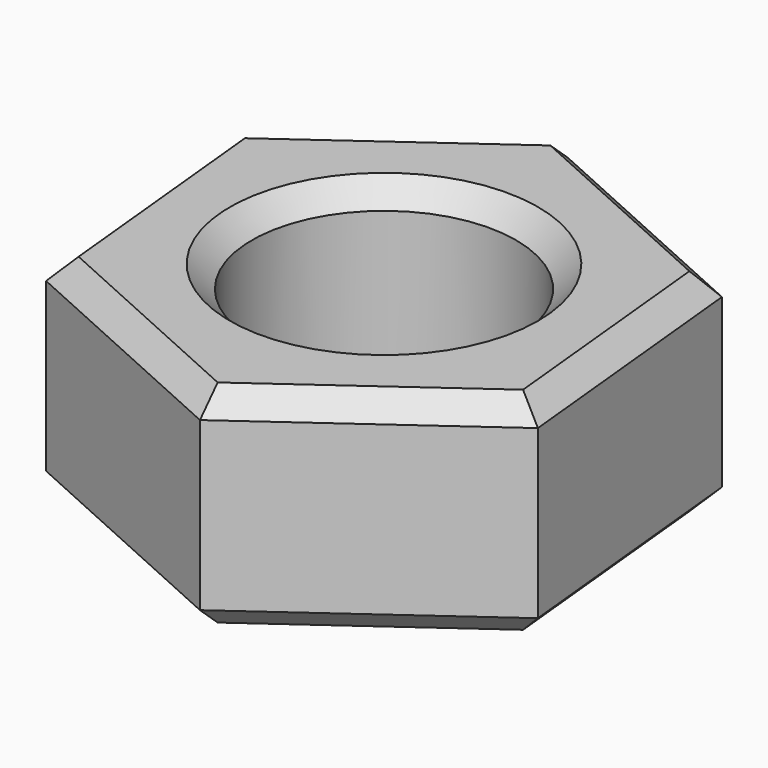
from build123d import *

# Parameters (mm, degrees)
F0_R     = 1.5
F1_DEPTH = 2.4
F2_SIZE  = 0.25
F3_SIZE  = 0.25


with BuildPart() as f1:
    # F0 (on Top) → F1 (new body)
    with BuildSketch(Plane.XY):
        Polygon((0.298511, -2.985112), (2.734438, -1.234037), (2.435927, 1.751074), (-0.298511, 2.985112), (-2.734438, 1.234037), (-2.435927, -1.751074), align=None)
        Circle(F0_R, mode=Mode.SUBTRACT)
    extrude(amount=F1_DEPTH)

    # F2
    f2_edges = [f1.edges().sort_by_distance(p)[0] for p in [
        (-1.068708, -2.368093, 0),
        (1.516475, -2.109574, 0),
        (2.585182, 0.258518, 0),
        (1.068708, 2.368093, 0),
        (-1.516475, 2.109574, 0),
        (-2.585182, -0.258518, 0),
        (-1.5, 0, 0),
    ]]
    chamfer(f2_edges, length=F2_SIZE)

    # F3
    f3_edges = [f1.edges().sort_by_distance(p)[0] for p in [
        (-1.068708, -2.368093, 2.4),
        (1.516475, -2.109574, 2.4),
        (2.585182, 0.258518, 2.4),
        (1.068708, 2.368093, 2.4),
        (-1.516475, 2.109574, 2.4),
        (-2.585182, -0.258518, 2.4),
        (-1.5, 0, 2.4),
    ]]
    chamfer(f3_edges, length=F3_SIZE)


solid = f1.part
